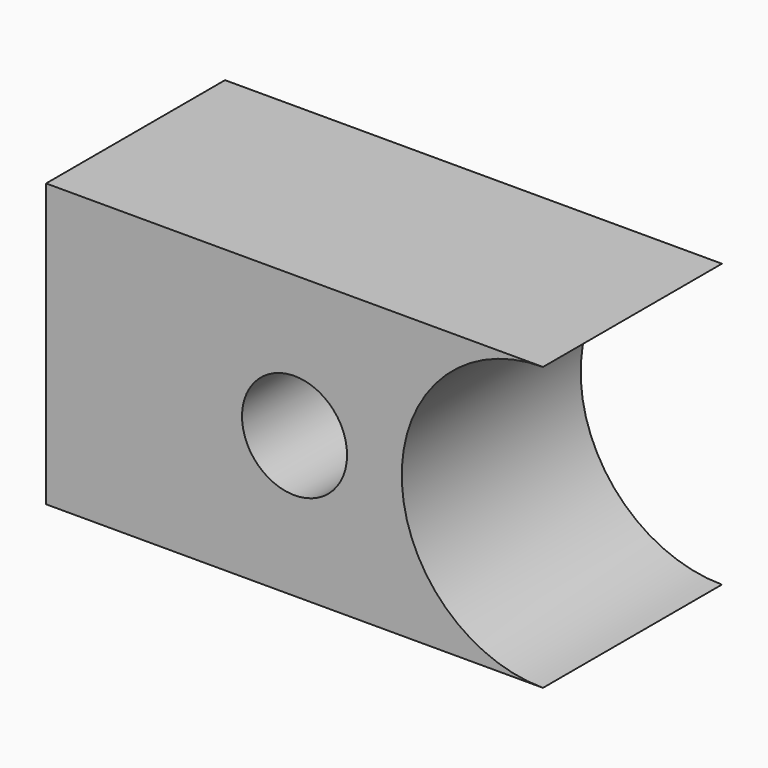
from build123d import *

# Parameters (mm, degrees)
F0_R     = 5.966098
F1_DEPTH = 25.4


with BuildPart() as f1:
    # F0 (on Front) → F1 (new body)
    with BuildSketch(Plane.XZ):
        with BuildLine():
            Line((28.216088, 16.040653), (-28.216088, 16.040653))
            Line((-28.216088, 16.040653), (-28.216088, -16.040653))
            Line((-28.216088, -16.040653), (28.216088, -16.040653))
            ThreePointArc((28.216088, -16.040653), (12.175435, 0), (28.216088, 16.040653))
        make_face()
        Circle(F0_R, mode=Mode.SUBTRACT)
    extrude(amount=F1_DEPTH)


solid = f1.part
